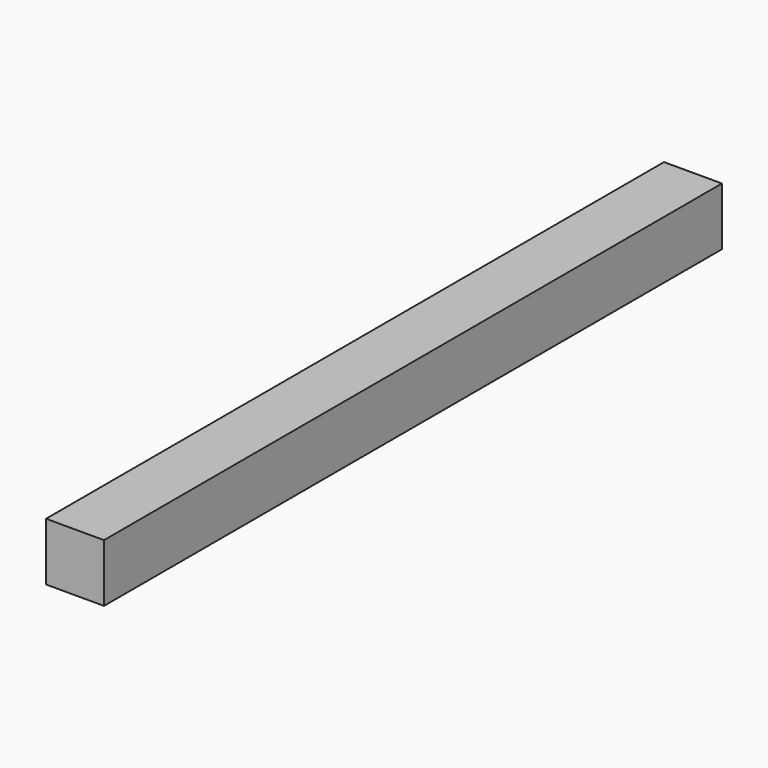
from build123d import *

# Parameters (mm, degrees)
SKETCH_W  = 30
SKETCH_H  = 30
PAD_DEPTH = 400


with BuildPart() as part:
    # Sketch → Pad (new body)
    with BuildSketch(Plane.XZ):
        with Locations((15, 15)):
            Rectangle(SKETCH_W, SKETCH_H)
    extrude(amount=PAD_DEPTH)


solid = part.part
